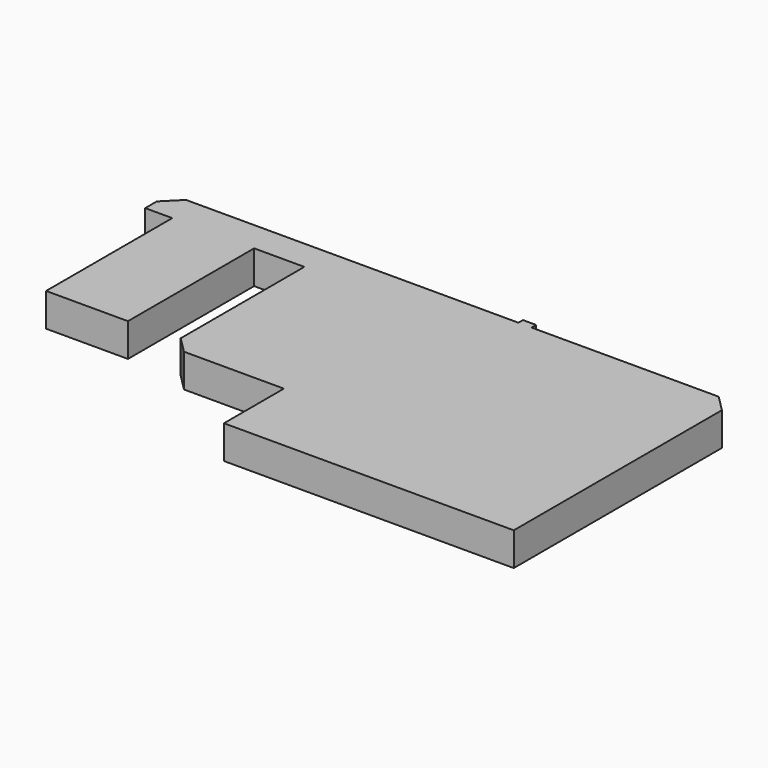
from build123d import *

# Parameters (mm, degrees)
F0_W     = 30.374784
F0_H     = 50.35834
F0_W_2   = 25.623474
F0_H_2   = 49.36993
F0_W_3   = 4.138445
F0_H_3   = 1.773622
F1_DEPTH = 10.414
F2_SIZE  = 5.08


with BuildPart() as f1:
    # F0 (on Top) → F1 (new body)
    with BuildSketch(Plane.XY):
        Polygon((-30.374784, 24.338016), (-36.359224, 24.338016), (-36.359224, 14.719548), (-36.359224, -38.724054), (0, -38.724054), (0, -26.020324), (-30.374784, -26.020324), align=None)
        Polygon((-36.359224, 14.719548), (-36.359224, 24.338016), (-86.168446, 24.338016), (-86.168446, 14.719548), (-77.702753, 14.719548), (-52.079279, 14.719548), align=None)
        with Locations((-15.187392, -0.841154)):
            Rectangle(F0_W, F0_H)
        Polygon((22.958538, 24.338016), (0, 24.338016), (0, -26.020324), (0, -38.724054), (27.096983, -38.724054), (27.096983, 24.338016), align=None)
        with Locations((-64.891016, -9.965417)):
            Rectangle(F0_W_2, F0_H_2)
        with Locations((25.02776, 25.224827)):
            Rectangle(F0_W_3, F0_H_3)
        Polygon((27.096983, -38.724054), (0, -38.724054), (0, -62.185474), (90.715356, -62.185474), (90.715356, 24.338016), (27.096983, 24.338016), align=None)
    extrude(amount=F1_DEPTH)

    # F2
    f2_edges = [f1.edges().sort_by_distance(p)[0] for p in [
        (-86.168446, 24.338016, 5.207),
        (-36.359224, -38.724054, 5.207),
        (90.715356, 24.338016, 5.207),
    ]]
    chamfer(f2_edges, length=F2_SIZE)


solid = f1.part
